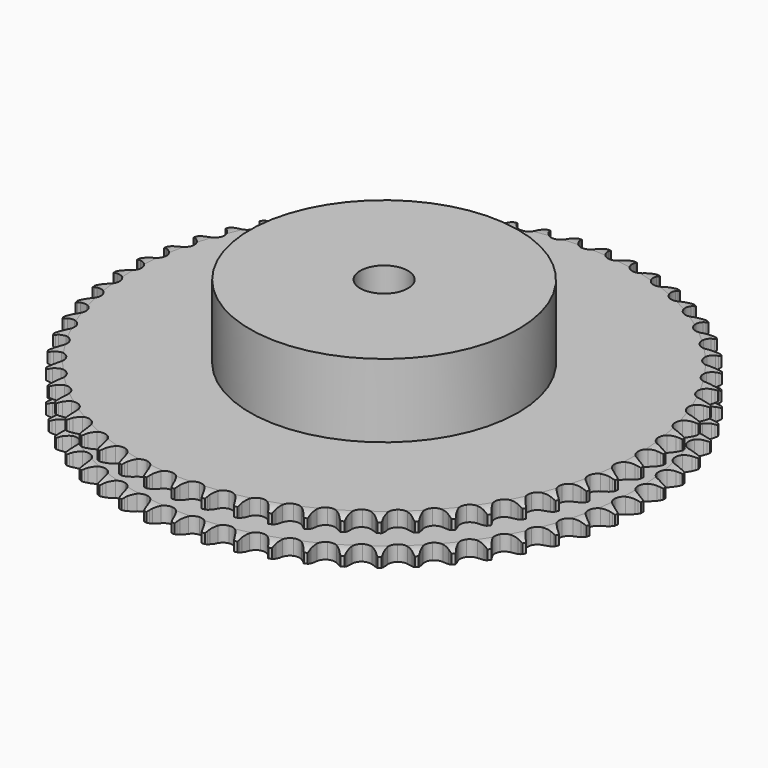
from build123d import *

# Parameters (mm, degrees)
PAD_DEPTH         = 15.4
SKETCH001_R       = 45
PAD001_DEPTH      = 40
SKETCH002_R       = 8
POCKET_DEPTH      = 0.001
POCKET_DEPTH_BACK = 40.001


with BuildPart() as part:
    # Sprocket → Pad (new body)
    with BuildSketch(Plane.XY):
        with BuildLine():
            ThreePointArc((-4.920238, 89.180738), (-4.419782, 88.441541), (-4.055896, 87.626401))
            Line((-4.055896, 87.626401), (-3.74757, 86.732736))
            ThreePointArc((-3.74757, 86.732736), (-3.26015, 85.600386), (-2.610551, 84.552618))
            ThreePointArc((-2.610551, 84.552618), (-1.464602, 83.57525), (0, 83.223986))
            ThreePointArc((0, 83.223986), (1.464602, 83.57525), (2.610551, 84.552618))
            ThreePointArc((2.610551, 84.552618), (3.26015, 85.600386), (3.74757, 86.732736))
            Line((3.74757, 86.732736), (4.055896, 87.626401))
            ThreePointArc((4.055896, 87.626401), (4.419782, 88.441541), (4.920238, 89.180738))
            ThreePointArc((4.920238, 89.180738), (5.336339, 88.390974), (5.608345, 87.54075))
            Line((5.608345, 87.54075), (5.816489, 86.61859))
            ThreePointArc((5.816489, 86.61859), (6.176383, 85.439493), (6.706776, 84.326623))
            ThreePointArc((6.706776, 84.326623), (7.738251, 83.229123), (9.155323, 82.718873))
            ThreePointArc((9.155323, 82.718873), (10.649678, 82.906887), (11.89619, 83.752259))
            Line((11.89619, 83.752259), (13.266139, 85.794063))
            ThreePointArc((13.266139, 85.794063), (13.456362, 86.226986), (13.670904, 86.648386))
            ThreePointArc((13.670904, 86.648386), (14.122254, 87.418549), (14.70099, 88.098204))
            ThreePointArc((14.70099, 88.098204), (15.027685, 87.267459), (15.204508, 86.392473))
            Line((15.204508, 86.392473), (15.309944, 85.453013))
            ThreePointArc((15.309944, 85.453013), (15.537943, 84.24148), (15.942693, 83.077017))
            ThreePointArc((15.942693, 83.077017), (16.847173, 81.872708), (18.199512, 81.209665))
            ThreePointArc((18.199512, 81.209665), (19.705481, 81.232146), (21.037425, 81.935261))
            Line((21.037425, 81.935261), (22.623675, 83.813967))
            ThreePointArc((22.623675, 83.813967), (22.860368, 84.223336), (23.119966, 84.618577))
            ThreePointArc((23.119966, 84.618577), (23.6533, 85.334413), (24.303292, 85.946278))
            ThreePointArc((24.303292, 85.946278), (24.536615, 85.084636), (24.616109, 84.195508))
            Line((24.616109, 84.195508), (24.617557, 83.250151))
            ThreePointArc((24.617557, 83.250151), (24.710894, 82.02089), (24.985086, 80.818969))
            ThreePointArc((24.985086, 80.818969), (25.751593, 79.522468), (27.022784, 78.714681))
            ThreePointArc((27.022784, 78.714681), (28.522086, 78.571357), (29.923295, 79.12368))
            Line((29.923295, 79.12368), (31.70659, 80.816483))
            ThreePointArc((31.70659, 80.816483), (31.98688, 81.197329), (32.288382, 81.561613))
            ThreePointArc((32.288382, 81.561613), (32.897228, 82.214434), (33.610585, 82.751081))
            ThreePointArc((33.610585, 82.751081), (33.747704, 81.869), (33.728904, 80.976524))
            Line((33.728904, 80.976524), (33.626346, 80.036745))
            ThreePointArc((33.626346, 80.036745), (33.583887, 78.804677), (33.724194, 77.579888))
            ThreePointArc((33.724194, 77.579888), (34.343424, 76.206934), (35.518036, 75.264208))
            ThreePointArc((35.518036, 75.264208), (36.992471, 74.956818), (38.445936, 75.351644))
            Line((38.445936, 75.351644), (40.40463, 76.837996))
            ThreePointArc((40.40463, 76.837996), (40.725115, 77.185696), (41.064862, 77.514602))
            ThreePointArc((41.064862, 77.514602), (41.741828, 78.096482), (42.50989, 78.551397))
            ThreePointArc((42.50989, 78.551397), (42.549141, 77.659586), (42.432276, 76.774595))
            Line((42.432276, 76.774595), (42.226957, 75.851802))
            ThreePointArc((42.226957, 75.851802), (42.049218, 74.631882), (42.053937, 73.399092))
            ThreePointArc((42.053937, 73.399092), (42.518372, 71.96635), (43.582147, 70.900129))
            ThreePointArc((43.582147, 70.900129), (45.013818, 70.432405), (46.501895, 70.664942))
            Line((46.501895, 70.664942), (48.612212, 71.9268))
            ThreePointArc((48.612212, 71.9268), (48.969003, 72.237134), (49.342869, 72.526669))
            ThreePointArc((49.342869, 72.526669), (50.079738, 73.030545), (50.893183, 73.398206))
            ThreePointArc((50.893183, 73.398206), (50.83409, 72.50749), (50.620577, 71.640726))
            Line((50.620577, 71.640726), (50.314989, 70.746121))
            ThreePointArc((50.314989, 70.746121), (50.004129, 69.553158), (49.873201, 68.32733))
            ThreePointArc((49.873201, 68.32733), (50.177204, 66.852193), (51.11723, 65.675419))
            ThreePointArc((51.11723, 65.675419), (52.488758, 65.053038), (53.993385, 65.120463))
            Line((53.993385, 65.120463), (56.229709, 66.14251))
            ThreePointArc((56.229709, 66.14251), (56.618473, 66.411711), (57.021921, 66.65836))
            ThreePointArc((57.021921, 66.65836), (57.809748, 67.078117), (58.658702, 67.35406))
            ThreePointArc((58.658702, 67.35406), (58.501981, 66.47525), (58.194414, 65.637235))
            Line((58.194414, 65.637235), (57.792266, 64.781677))
            ThreePointArc((57.792266, 64.781677), (57.352057, 63.630152), (57.087073, 62.426167))
            ThreePointArc((57.087073, 62.426167), (57.226953, 60.92654), (58.031819, 59.653498))
            ThreePointArc((58.031819, 59.653498), (59.326556, 58.884015), (60.829468, 58.785509))
            Line((60.829468, 58.785509), (63.164652, 59.555339))
            ThreePointArc((63.164652, 59.555339), (63.580671, 59.780139), (64.008805, 59.980908))
            ThreePointArc((64.008805, 59.980908), (64.838027, 60.31145), (65.712184, 60.492327))
            ThreePointArc((65.712184, 60.492327), (65.459738, 59.636092), (65.061848, 58.836998))
            Line((65.061848, 58.836998), (64.568023, 58.030872))
            ThreePointArc((64.568023, 58.030872), (64.003808, 56.934762), (63.607985, 55.767235))
            ThreePointArc((63.607985, 55.767235), (63.582045, 54.261322), (64.241981, 52.907464))
            ThreePointArc((64.241981, 52.907464), (65.44421, 52.00022), (66.927163, 51.73698))
            Line((66.927163, 51.73698), (69.332862, 52.245248))
            ThreePointArc((69.332862, 52.245248), (69.771086, 52.422918), (70.218707, 52.57537))
            ThreePointArc((70.218707, 52.57537), (71.079259, 52.812685), (71.968009, 52.896299))
            ThreePointArc((71.968009, 52.896299), (71.622902, 52.073032), (71.13952, 51.322559))
            Line((71.13952, 51.322559), (70.560012, 50.57565))
            ThreePointArc((70.560012, 50.57565), (69.87864, 49.548262), (69.356782, 48.431365))
            ThreePointArc((69.356782, 48.431365), (69.165336, 46.937445), (69.672331, 45.519206))
            ThreePointArc((69.672331, 45.519206), (70.76746, 44.485213), (72.212454, 44.060433))
            Line((72.212454, 44.060433), (74.659466, 44.30097))
            ThreePointArc((74.659466, 44.30097), (75.114575, 44.429353), (75.57625, 44.531638))
            ThreePointArc((75.57625, 44.531638), (76.457686, 44.672845), (77.350239, 44.658182))
            ThreePointArc((77.350239, 44.658182), (76.916661, 43.877876), (76.353655, 43.185134))
            Line((76.353655, 43.185134), (75.695498, 42.506509))
            ThreePointArc((75.695498, 42.506509), (74.905241, 41.560312), (74.263681, 40.507603))
            ThreePointArc((74.263681, 40.507603), (73.909054, 39.043811), (74.256954, 37.578406))
            ThreePointArc((74.256954, 37.578406), (75.231688, 36.430216), (76.621183, 35.849052))
            Line((76.621183, 35.849052), (79.079804, 35.818938))
            ThreePointArc((79.079804, 35.818938), (79.546274, 35.896476), (80.0164, 35.947352))
            ThreePointArc((80.0164, 35.947352), (80.908019, 35.990737), (81.793543, 35.877974))
            ThreePointArc((81.793543, 35.877974), (81.276756, 35.150102), (80.64096, 34.523499))
            Line((80.64096, 34.523499), (79.912143, 33.921396))
            ThreePointArc((79.912143, 33.921396), (79.022592, 33.067877), (78.26912, 32.092134))
            ThreePointArc((78.26912, 32.092134), (77.755617, 30.676238), (77.940198, 29.181455))
            ThreePointArc((77.940198, 29.181455), (78.782706, 27.933005), (80.099835, 27.202513))
            Line((80.099835, 27.202513), (82.540221, 26.902113))
            ThreePointArc((82.540221, 26.902113), (83.01239, 26.927865), (83.485259, 26.926715))
            ThreePointArc((83.485259, 26.926715), (84.376239, 26.87175), (85.243984, 26.662257))
            ThreePointArc((85.243984, 26.662257), (84.650261, 25.995653), (83.949393, 25.442797))
            Line((83.949393, 25.442797), (83.158763, 24.924524))
            ThreePointArc((83.158763, 24.924524), (82.180717, 24.174043), (81.324478, 23.28711))
            ThreePointArc((81.324478, 23.28711), (80.658331, 21.936297), (80.677354, 20.430281))
            ThreePointArc((80.677354, 20.430281), (81.377408, 19.096725), (82.606183, 18.225772))
            Line((82.606183, 18.225772), (84.998711, 17.658732))
            ThreePointArc((84.998711, 17.658732), (85.470847, 17.632386), (85.94072, 17.579223))
            ThreePointArc((85.94072, 17.579223), (86.820246, 17.426577), (87.659678, 17.122896))
            ThreePointArc((87.659678, 17.122896), (86.996227, 16.525652), (86.238794, 16.053253))
            Line((86.238794, 16.053253), (85.395948, 15.625101))
            ThreePointArc((85.395948, 15.625101), (84.341279, 14.986768), (83.392667, 14.199411))
            ThreePointArc((83.392667, 14.199411), (82.581963, 12.930079), (82.435196, 11.431111))
            ThreePointArc((82.435196, 11.431111), (82.984299, 10.028637), (84.109804, 9.027794))
            Line((84.109804, 9.027794), (86.425432, 8.200999))
            ThreePointArc((86.425432, 8.200999), (86.891805, 8.122873), (87.352977, 8.018343))
            ThreePointArc((87.352977, 8.018343), (88.210373, 7.769868), (89.011302, 7.375687))
            ThreePointArc((89.011302, 7.375687), (88.286177, 6.855053), (87.481372, 6.468844))
            Line((87.481372, 6.468844), (86.596542, 6.136011))
            ThreePointArc((86.596542, 6.136011), (85.478053, 5.617574), (84.448582, 4.939352))
            ThreePointArc((84.448582, 4.939352), (83.503161, 3.766907), (83.192386, 2.293182))
            ThreePointArc((83.192386, 2.293182), (83.583873, 0.838815), (84.592446, -0.279768))
            Line((84.592446, -0.279768), (86.803066, -1.356284))
            ThreePointArc((86.803066, -1.356284), (87.258013, -1.48524), (87.704887, -1.639868))
            ThreePointArc((87.704887, -1.639868), (88.529745, -1.981156), (89.28245, -2.461054))
            ThreePointArc((89.28245, -2.461054), (88.504452, -2.898758), (87.662046, -3.194088))
            Line((87.662046, -3.194088), (86.745971, -3.427562))
            ThreePointArc((86.745971, -3.427562), (85.577238, -3.819809), (84.479406, -4.380665))
            ThreePointArc((84.479406, -4.380665), (83.410744, -5.441989), (82.939734, -6.872582))
            ThreePointArc((82.939734, -6.872582), (83.168853, -8.36119), (84.048251, -9.583935))
            Line((84.048251, -9.583935), (86.127028, -10.897103))
            ThreePointArc((86.127028, -10.897103), (86.565027, -11.075325), (86.992179, -11.278174))
            ThreePointArc((86.992179, -11.278174), (87.774486, -11.708131), (88.46983, -12.26792))
            ThreePointArc((88.46983, -12.26792), (87.648402, -12.617382), (86.77862, -12.818247))
            Line((86.77862, -12.818247), (85.842422, -12.949529))
            ThreePointArc((85.842422, -12.949529), (84.637632, -13.210825), (83.484764, -13.647507))
            ThreePointArc((83.484764, -13.647507), (82.305834, -14.584828), (81.680305, -15.954923))
            ThreePointArc((81.680305, -15.954923), (81.744274, -17.4597), (82.483823, -18.771765))
            Line((82.483823, -18.771765), (84.405524, -20.305646))
            ThreePointArc((84.405524, -20.305646), (84.821259, -20.530969), (85.223504, -20.779578))
            ThreePointArc((85.223504, -20.779578), (85.953764, -21.292986), (86.583306, -21.925871))
            ThreePointArc((86.583306, -21.925871), (85.72842, -22.182848), (84.84182, -22.286811))
            Line((84.84182, -22.286811), (83.896862, -22.314306))
            ThreePointArc((83.896862, -22.314306), (82.670639, -22.441479), (81.47673, -22.748686))
            ThreePointArc((81.47673, -22.748686), (80.201842, -23.550626), (79.429389, -24.843592))
            ThreePointArc((79.429389, -24.843592), (79.327431, -26.346274), (79.918154, -27.731732))
            Line((79.918154, -27.731732), (81.659452, -29.467706))
            ThreePointArc((81.659452, -29.467706), (82.047876, -29.737396), (82.42033, -30.028746))
            ThreePointArc((82.42033, -30.028746), (83.089679, -30.619372), (83.645778, -31.317671))
            ThreePointArc((83.645778, -31.317671), (82.767811, -31.479044), (81.875156, -31.484843))
            Line((81.875156, -31.484843), (80.932908, -31.408218))
            ThreePointArc((80.932908, -31.408218), (79.700137, -31.399725), (78.479679, -31.573727))
            ThreePointArc((78.479679, -31.573727), (77.124309, -32.230552), (76.214307, -33.430694))
            ThreePointArc((76.214307, -33.430694), (75.947661, -34.913039), (76.382386, -36.355073))
            Line((76.382386, -36.355073), (77.922144, -38.272068))
            ThreePointArc((77.922144, -38.272068), (78.278543, -38.582851), (78.616686, -38.913406))
            ThreePointArc((78.616686, -38.913406), (79.216998, -39.574081), (79.692904, -40.329317))
            ThreePointArc((79.692904, -40.329317), (78.802513, -40.393127), (77.914637, -40.300691))
            Line((77.914637, -40.300691), (76.986538, -40.120877))
            ThreePointArc((76.986538, -40.120877), (75.762184, -39.97682), (74.529991, -40.015506))
            ThreePointArc((74.529991, -40.015506), (73.110591, -40.519242), (72.074086, -41.611993))
            ThreePointArc((72.074086, -41.611993), (71.645989, -43.056008), (71.91944, -44.537113))
            Line((71.91944, -44.537113), (73.238967, -46.611859))
            ThreePointArc((73.238967, -46.611859), (73.559015, -46.959963), (73.858741, -47.32571))
            ThreePointArc((73.858741, -47.32571), (74.38273, -48.048415), (74.772665, -48.85142))
            ThreePointArc((74.772665, -48.85142), (73.880659, -48.816892), (73.008341, -48.627344))
            Line((73.008341, -48.627344), (72.105655, -48.346522))
            ThreePointArc((72.105655, -48.346522), (70.90458, -48.068651), (69.67561, -47.97155))
            ThreePointArc((69.67561, -47.97155), (68.20941, -48.316084), (67.058984, -49.288178))
            ThreePointArc((67.058984, -49.288178), (66.474631, -50.676335), (66.583489, -52.178532))
            Line((66.583489, -52.178532), (67.666769, -54.385845))
            ThreePointArc((67.666769, -54.385845), (67.946579, -54.767044), (68.204251, -55.163543))
            ThreePointArc((68.204251, -55.163543), (68.645557, -55.939505), (68.944788, -56.780533))
            ThreePointArc((68.944788, -56.780533), (68.061994, -56.648087), (67.215822, -56.363727))
            Line((67.215822, -56.363727), (66.349508, -55.985306))
            ThreePointArc((66.349508, -55.985306), (65.18629, -55.576993), (63.975461, -55.345285))
            ThreePointArc((63.975461, -55.345285), (62.480258, -55.526434), (61.229876, -56.366072))
            ThreePointArc((61.229876, -56.366072), (60.496362, -57.68152), (60.439305, -59.186575))
            Line((60.439305, -59.186575), (61.273187, -61.499661))
            ThreePointArc((61.273187, -61.499661), (61.509365, -61.909327), (61.721855, -62.331766))
            ThreePointArc((61.721855, -62.331766), (62.07512, -63.151566), (62.280014, -64.020407))
            ThreePointArc((62.280014, -64.020407), (61.417148, -63.79165), (60.607394, -63.41593))
            Line((60.607394, -63.41593), (59.787967, -62.944505))
            ThreePointArc((59.787967, -62.944505), (58.676727, -62.410707), (57.498737, -62.047204))
            ThreePointArc((57.498737, -62.047204), (55.992681, -62.062768), (54.657521, -62.759758))
            ThreePointArc((54.657521, -62.759758), (53.783748, -63.986529), (53.561469, -65.476173))
            Line((53.561469, -65.476173), (54.135832, -67.866954))
            ThreePointArc((54.135832, -67.866954), (54.325509, -68.300116), (54.490238, -68.743366))
            ThreePointArc((54.490238, -68.743366), (54.751174, -69.597052), (54.859246, -70.48316))
            ThreePointArc((54.859246, -70.48316), (54.026782, -70.160869), (53.263275, -69.69835))
            Line((53.263275, -69.69835), (52.500682, -69.139642))
            ThreePointArc((52.500682, -69.139642), (51.454908, -68.486838), (50.324056, -67.995953))
            ThreePointArc((50.324056, -67.995953), (48.825429, -67.845744), (47.421698, -68.391625))
            ThreePointArc((47.421698, -68.391625), (46.418273, -69.514829), (46.03347, -70.970979))
            Line((46.03347, -70.970979), (46.341341, -73.410434))
            ThreePointArc((46.341341, -73.410434), (46.482216, -73.861833), (46.597184, -74.320515))
            ThreePointArc((46.597184, -74.320515), (46.762624, -75.197724), (46.77256, -76.090343))
            ThreePointArc((46.77256, -76.090343), (45.980604, -75.67843), (45.272611, -75.134726))
            Line((45.272611, -75.134726), (44.576109, -74.495518))
            ThreePointArc((44.576109, -74.495518), (43.608497, -73.731632), (42.538509, -73.119323))
            ThreePointArc((42.538509, -73.119323), (41.065502, -72.805165), (39.610239, -73.193311))
            ThreePointArc((39.610239, -73.193311), (38.489343, -74.199313), (37.946687, -75.604293))
            Line((37.946687, -75.604293), (37.98433, -78.062811))
            ThreePointArc((37.98433, -78.062811), (38.074692, -78.526967), (38.138503, -78.995513))
            ThreePointArc((38.138503, -78.995513), (38.206439, -79.885598), (38.118119, -80.773893))
            ThreePointArc((38.118119, -80.773893), (37.376283, -80.277358), (36.7324, -79.659069))
            Line((36.7324, -79.659069), (36.110443, -78.947119))
            ThreePointArc((36.110443, -78.947119), (35.232737, -78.081425), (34.236603, -77.355124))
            ThreePointArc((34.236603, -77.355124), (32.807095, -76.88083), (31.317966, -77.106529))
            ThreePointArc((31.317966, -77.106529), (30.093204, -77.983117), (29.399283, -79.319874))
            Line((29.399283, -79.319874), (29.16624, -81.767611))
            ThreePointArc((29.16624, -81.767611), (29.204992, -82.238891), (29.216872, -82.711612))
            ThreePointArc((29.216872, -82.711612), (29.186479, -83.603769), (29.000976, -84.476956))
            ThreePointArc((29.000976, -84.476956), (28.318265, -83.901827), (27.746306, -83.216458))
            Line((27.746306, -83.216458), (27.206445, -82.440409))
            ThreePointArc((27.206445, -82.440409), (26.4293, -81.483414), (25.51911, -80.651939))
            ThreePointArc((25.51911, -80.651939), (24.150455, -80.023266), (22.645535, -80.083779))
            ThreePointArc((22.645535, -80.083779), (21.331775, -80.820312), (20.495011, -82.072619))
            Line((20.495011, -82.072619), (19.994111, -84.479863))
            ThreePointArc((19.994111, -84.479863), (19.980784, -84.952546), (19.940588, -85.423705))
            ThreePointArc((19.940588, -85.423705), (19.812235, -86.307103), (19.5318, -87.154584))
            ThreePointArc((19.5318, -87.154584), (18.916502, -86.507842), (18.423411, -85.763712))
            Line((18.423411, -85.763712), (17.972198, -84.932985))
            ThreePointArc((17.972198, -84.932985), (17.305046, -83.896305), (16.49185, -82.969748))
            ThreePointArc((16.49185, -82.969748), (15.200661, -82.194327), (13.698218, -82.088919))
            ThreePointArc((13.698218, -82.088919), (12.311407, -82.676458), (11.341957, -83.829113))
            Line((11.341957, -83.829113), (10.579281, -86.166644))
            ThreePointArc((10.579281, -86.166644), (10.514035, -86.634992), (10.422252, -87.09887))
            ThreePointArc((10.422252, -87.09887), (10.197497, -87.962786), (9.825534, -88.774273))
            ThreePointArc((9.825534, -88.774273), (9.285117, -88.063769), (8.87688, -87.269911))
            Line((8.87688, -87.269911), (8.519792, -86.394588))
            ThreePointArc((8.519792, -86.394588), (7.970733, -85.290809), (7.264401, -84.280417))
            ThreePointArc((7.264401, -84.280417), (6.066352, -83.367661), (4.584623, -83.097612))
            ThreePointArc((4.584623, -83.097612), (3.141595, -83.529024), (2.051227, -84.568036))
            Line((2.051227, -84.568036), (1.036032, -86.807479))
            ThreePointArc((1.036032, -86.807479), (0.919661, -87.265807), (0.777405, -87.716772))
            ThreePointArc((0.777405, -87.716772), (0.458975, -88.55072), (0, -89.316363))
            ThreePointArc((0, -89.316363), (-0.458975, -88.55072), (-0.777405, -87.716772))
            Line((-0.777405, -87.716772), (-1.036032, -86.807479))
            ThreePointArc((-1.036032, -86.807479), (-1.460334, -85.649997), (-2.051227, -84.568036))
            ThreePointArc((-2.051227, -84.568036), (-3.141595, -83.529024), (-4.584623, -83.097612))
            ThreePointArc((-4.584623, -83.097612), (-6.066352, -83.367661), (-7.264401, -84.280417))
            Line((-7.264401, -84.280417), (-8.519792, -86.394588))
            ThreePointArc((-8.519792, -86.394588), (-8.685877, -86.837332), (-8.87688, -87.269911))
            ThreePointArc((-8.87688, -87.269911), (-9.285117, -88.063769), (-9.825534, -88.774273))
            ThreePointArc((-9.825534, -88.774273), (-10.197497, -87.962786), (-10.422252, -87.09887))
            Line((-10.422252, -87.09887), (-10.579281, -86.166644))
            ThreePointArc((-10.579281, -86.166644), (-10.873675, -84.969511), (-11.341957, -83.829113))
            ThreePointArc((-11.341957, -83.829113), (-12.311407, -82.676458), (-13.698218, -82.088919))
            ThreePointArc((-13.698218, -82.088919), (-15.200661, -82.194327), (-16.49185, -82.969748))
            Line((-16.49185, -82.969748), (-17.972198, -84.932985))
            ThreePointArc((-17.972198, -84.932985), (-18.18598, -85.354771), (-18.423411, -85.763712))
            ThreePointArc((-18.423411, -85.763712), (-18.916502, -86.507842), (-19.5318, -87.154584))
            ThreePointArc((-19.5318, -87.154584), (-19.812235, -86.307103), (-19.940588, -85.423705))
            Line((-19.940588, -85.423705), (-19.994111, -84.479863))
            ThreePointArc((-19.994111, -84.479863), (-20.155024, -83.25761), (-20.495011, -82.072619))
            ThreePointArc((-20.495011, -82.072619), (-21.331775, -80.820312), (-22.645535, -80.083779))
            ThreePointArc((-22.645535, -80.083779), (-24.150455, -80.023266), (-25.51911, -80.651939))
            Line((-25.51911, -80.651939), (-27.206445, -82.440409))
            ThreePointArc((-27.206445, -82.440409), (-27.46533, -82.836118), (-27.746306, -83.216458))
            ThreePointArc((-27.746306, -83.216458), (-28.318265, -83.901827), (-29.000976, -84.476956))
            ThreePointArc((-29.000976, -84.476956), (-29.186479, -83.603769), (-29.216872, -82.711612))
            Line((-29.216872, -82.711612), (-29.16624, -81.767611))
            ThreePointArc((-29.16624, -81.767611), (-29.191718, -80.535075), (-29.399283, -79.319874))
            ThreePointArc((-29.399283, -79.319874), (-30.093204, -77.983117), (-31.317966, -77.106529))
            ThreePointArc((-31.317966, -77.106529), (-32.807095, -76.88083), (-34.236603, -77.355124))
            Line((-34.236603, -77.355124), (-36.110443, -78.947119))
            ThreePointArc((-36.110443, -78.947119), (-36.411288, -79.311947), (-36.7324, -79.659069))
            ThreePointArc((-36.7324, -79.659069), (-37.376283, -80.277358), (-38.118119, -80.773893))
            ThreePointArc((-38.118119, -80.773893), (-38.206439, -79.885598), (-38.138503, -78.995513))
            Line((-38.138503, -78.995513), (-37.98433, -78.062811))
            ThreePointArc((-37.98433, -78.062811), (-37.874064, -76.834952), (-37.946687, -75.604293))
            ThreePointArc((-37.946687, -75.604293), (-38.489343, -74.199313), (-39.610239, -73.193311))
            ThreePointArc((-39.610239, -73.193311), (-41.065502, -72.805165), (-42.538509, -73.119323))
            Line((-42.538509, -73.119323), (-44.576109, -74.495518))
            ThreePointArc((-44.576109, -74.495518), (-44.915262, -74.825036), (-45.272611, -75.134726))
            ThreePointArc((-45.272611, -75.134726), (-45.980604, -75.67843), (-46.77256, -76.090343))
            ThreePointArc((-46.77256, -76.090343), (-46.762624, -75.197724), (-46.597184, -74.320515))
            Line((-46.597184, -74.320515), (-46.341341, -73.410434))
            ThreePointArc((-46.341341, -73.410434), (-46.096671, -72.202158), (-46.03347, -70.970979))
            ThreePointArc((-46.03347, -70.970979), (-46.418273, -69.514829), (-47.421698, -68.391625))
            ThreePointArc((-47.421698, -68.391625), (-48.825429, -67.845744), (-50.324056, -67.995953))
            Line((-50.324056, -67.995953), (-52.500682, -69.139642))
            ThreePointArc((-52.500682, -69.139642), (-52.874026, -69.42985), (-53.263275, -69.69835))
            ThreePointArc((-53.263275, -69.69835), (-54.026782, -70.160869), (-54.859246, -70.48316))
            ThreePointArc((-54.859246, -70.48316), (-54.751174, -69.597052), (-54.490238, -68.743366))
            Line((-54.490238, -68.743366), (-54.135832, -67.866954))
            ThreePointArc((-54.135832, -67.866954), (-53.759726, -66.692927), (-53.561469, -65.476173))
            ThreePointArc((-53.561469, -65.476173), (-53.783748, -63.986529), (-54.657521, -62.759758))
            ThreePointArc((-54.657521, -62.759758), (-55.992681, -62.062768), (-57.498737, -62.047204))
            Line((-57.498737, -62.047204), (-59.787967, -62.944505))
            ThreePointArc((-59.787967, -62.944505), (-60.190971, -63.191881), (-60.607394, -63.41593))
            ThreePointArc((-60.607394, -63.41593), (-61.417148, -63.79165), (-62.280014, -64.020407))
            ThreePointArc((-62.280014, -64.020407), (-62.07512, -63.151566), (-61.721855, -62.331766))
            Line((-61.721855, -62.331766), (-61.273187, -61.499661))
            ThreePointArc((-61.273187, -61.499661), (-60.770211, -60.374134), (-60.439305, -59.186575))
            ThreePointArc((-60.439305, -59.186575), (-60.496362, -57.68152), (-61.229876, -56.366072))
            ThreePointArc((-61.229876, -56.366072), (-62.480258, -55.526434), (-63.975461, -55.345285))
            Line((-63.975461, -55.345285), (-66.349508, -55.985306))
            ThreePointArc((-66.349508, -55.985306), (-66.777279, -56.186847), (-67.215822, -56.363727))
            ThreePointArc((-67.215822, -56.363727), (-68.061994, -56.648087), (-68.944788, -56.780533))
            ThreePointArc((-68.944788, -56.780533), (-68.645557, -55.939505), (-68.204251, -55.163543))
            Line((-68.204251, -55.163543), (-67.666769, -54.385845))
            ThreePointArc((-67.666769, -54.385845), (-67.043028, -53.322481), (-66.583489, -52.178532))
            ThreePointArc((-66.583489, -52.178532), (-66.474631, -50.676335), (-67.058984, -49.288178))
            ThreePointArc((-67.058984, -49.288178), (-68.20941, -48.316084), (-69.67561, -47.97155))
            Line((-69.67561, -47.97155), (-72.105655, -48.346522))
            ThreePointArc((-72.105655, -48.346522), (-72.553001, -48.499781), (-73.008341, -48.627344))
            ThreePointArc((-73.008341, -48.627344), (-73.880659, -48.816892), (-74.772665, -48.85142))
            ThreePointArc((-74.772665, -48.85142), (-74.38273, -48.048415), (-73.858741, -47.32571))
            Line((-73.858741, -47.32571), (-73.238967, -46.611859))
            ThreePointArc((-73.238967, -46.611859), (-72.502034, -45.623566), (-71.91944, -44.537113))
            ThreePointArc((-71.91944, -44.537113), (-71.645989, -43.056008), (-72.074086, -41.611993))
            ThreePointArc((-72.074086, -41.611993), (-73.110591, -40.519242), (-74.529991, -40.015506))
            Line((-74.529991, -40.015506), (-76.986538, -40.120877))
            ThreePointArc((-76.986538, -40.120877), (-77.448028, -40.223994), (-77.914637, -40.300691))
            ThreePointArc((-77.914637, -40.300691), (-78.802513, -40.393127), (-79.692904, -40.329317))
            ThreePointArc((-79.692904, -40.329317), (-79.216998, -39.574081), (-78.616686, -38.913406))
            Line((-78.616686, -38.913406), (-77.922144, -38.272068))
            ThreePointArc((-77.922144, -38.272068), (-77.080963, -37.370842), (-76.382386, -36.355073))
            ThreePointArc((-76.382386, -36.355073), (-75.947661, -34.913039), (-76.214307, -33.430694))
            ThreePointArc((-76.214307, -33.430694), (-77.124309, -32.230552), (-78.479679, -31.573727))
            Line((-78.479679, -31.573727), (-80.932908, -31.408218))
            ThreePointArc((-80.932908, -31.408218), (-81.402941, -31.459942), (-81.875156, -31.484843))
            ThreePointArc((-81.875156, -31.484843), (-82.767811, -31.479044), (-83.645778, -31.317671))
            ThreePointArc((-83.645778, -31.317671), (-83.089679, -30.619372), (-82.42033, -30.028746))
            Line((-82.42033, -30.028746), (-81.659452, -29.467706))
            ThreePointArc((-81.659452, -29.467706), (-80.724233, -28.664486), (-79.918154, -27.731732))
            ThreePointArc((-79.918154, -27.731732), (-79.327431, -26.346274), (-79.429389, -24.843592))
            ThreePointArc((-79.429389, -24.843592), (-80.201842, -23.550626), (-81.47673, -22.748686))
            Line((-81.47673, -22.748686), (-83.896862, -22.314306))
            ThreePointArc((-83.896862, -22.314306), (-84.369733, -22.314009), (-84.84182, -22.286811))
            ThreePointArc((-84.84182, -22.286811), (-85.72842, -22.182848), (-86.583306, -21.925871))
            ThreePointArc((-86.583306, -21.925871), (-85.953764, -21.292986), (-85.223504, -20.779578))
            Line((-85.223504, -20.779578), (-84.405524, -20.305646))
            ThreePointArc((-84.405524, -20.305646), (-83.387621, -19.610183), (-82.483823, -18.771765))
            ThreePointArc((-82.483823, -18.771765), (-81.744274, -17.4597), (-81.680305, -15.954923))
            ThreePointArc((-81.680305, -15.954923), (-82.305834, -14.584828), (-83.484764, -13.647507))
            Line((-83.484764, -13.647507), (-85.842422, -12.949529))
            ThreePointArc((-85.842422, -12.949529), (-86.31239, -12.897213), (-86.77862, -12.818247))
            ThreePointArc((-86.77862, -12.818247), (-87.648402, -12.617382), (-88.46983, -12.26792))
            ThreePointArc((-88.46983, -12.26792), (-87.774486, -11.708131), (-86.992179, -11.278174))
            Line((-86.992179, -11.278174), (-86.127028, -10.897103))
            ThreePointArc((-86.127028, -10.897103), (-85.038796, -10.317839), (-84.048251, -9.583935))
            ThreePointArc((-84.048251, -9.583935), (-83.168853, -8.36119), (-82.939734, -6.872582))
            ThreePointArc((-82.939734, -6.872582), (-83.410744, -5.441989), (-84.479406, -4.380665))
            Line((-84.479406, -4.380665), (-86.745971, -3.427562))
            ThreePointArc((-86.745971, -3.427562), (-87.207332, -3.323864), (-87.662046, -3.194088))
            ThreePointArc((-87.662046, -3.194088), (-88.504452, -2.898758), (-89.28245, -2.461054))
            ThreePointArc((-89.28245, -2.461054), (-88.529745, -1.981156), (-87.704887, -1.639868))
            Line((-87.704887, -1.639868), (-86.803066, -1.356284))
            ThreePointArc((-86.803066, -1.356284), (-85.657715, -0.90025), (-84.592446, -0.279768))
            ThreePointArc((-84.592446, -0.279768), (-83.583873, 0.838815), (-83.192386, 2.293182))
            ThreePointArc((-83.192386, 2.293182), (-83.503161, 3.766907), (-84.448582, 4.939352))
            Line((-84.448582, 4.939352), (-86.596542, 6.136011))
            ThreePointArc((-86.596542, 6.136011), (-87.043695, 6.289833), (-87.481372, 6.468844))
            ThreePointArc((-87.481372, 6.468844), (-88.286177, 6.855053), (-89.011302, 7.375687))
            ThreePointArc((-89.011302, 7.375687), (-88.210373, 7.769868), (-87.352977, 8.018343))
            Line((-87.352977, 8.018343), (-86.425432, 8.200999))
            ThreePointArc((-86.425432, 8.200999), (-85.236866, 8.528267), (-84.109804, 9.027794))
            ThreePointArc((-84.109804, 9.027794), (-82.984299, 10.028637), (-82.435196, 11.431111))
            ThreePointArc((-82.435196, 11.431111), (-82.581963, 12.930079), (-83.392667, 14.199411))
            Line((-83.392667, 14.199411), (-85.395948, 15.625101))
            ThreePointArc((-85.395948, 15.625101), (-85.823465, 15.82718), (-86.238794, 16.053253))
            ThreePointArc((-86.238794, 16.053253), (-86.996227, 16.525652), (-87.659678, 17.122896))
            ThreePointArc((-87.659678, 17.122896), (-86.820246, 17.426577), (-85.94072, 17.579223))
            Line((-85.94072, 17.579223), (-84.998711, 17.658732))
            ThreePointArc((-84.998711, 17.658732), (-83.781356, 17.853262), (-82.606183, 18.225772))
            ThreePointArc((-82.606183, 18.225772), (-81.377408, 19.096725), (-80.677354, 20.430281))
            ThreePointArc((-80.677354, 20.430281), (-80.658331, 21.936297), (-81.324478, 23.28711))
            Line((-81.324478, 23.28711), (-83.158763, 24.924524))
            ThreePointArc((-83.158763, 24.924524), (-83.561455, 25.172407), (-83.949393, 25.442797))
            ThreePointArc((-83.949393, 25.442797), (-84.650261, 25.995653), (-85.243984, 26.662257))
            ThreePointArc((-85.243984, 26.662257), (-84.376239, 26.87175), (-83.485259, 26.926715))
            Line((-83.485259, 26.926715), (-82.540221, 26.902113))
            ThreePointArc((-82.540221, 26.902113), (-81.308855, 26.961543), (-80.099835, 27.202513))
            ThreePointArc((-80.099835, 27.202513), (-78.782706, 27.933005), (-77.940198, 29.181455))
            ThreePointArc((-77.940198, 29.181455), (-77.755617, 30.676238), (-78.26912, 32.092134))
            Line((-78.26912, 32.092134), (-79.912143, 33.921396))
            ThreePointArc((-79.912143, 33.921396), (-80.285122, 34.212074), (-80.64096, 34.523499))
            ThreePointArc((-80.64096, 34.523499), (-81.276756, 35.150102), (-81.793543, 35.877974))
            ThreePointArc((-81.793543, 35.877974), (-80.908019, 35.990737), (-80.0164, 35.947352))
            Line((-80.0164, 35.947352), (-79.079804, 35.818938))
            ThreePointArc((-79.079804, 35.818938), (-77.849373, 35.742547), (-76.621183, 35.849052))
            ThreePointArc((-76.621183, 35.849052), (-75.231688, 36.430216), (-74.256954, 37.578406))
            ThreePointArc((-74.256954, 37.578406), (-73.909054, 39.043811), (-74.263681, 40.507603))
            Line((-74.263681, 40.507603), (-75.695498, 42.506509))
            ThreePointArc((-75.695498, 42.506509), (-76.034236, 42.836454), (-76.353655, 43.185134))
            ThreePointArc((-76.353655, 43.185134), (-76.916661, 43.877876), (-77.350239, 44.658182))
            ThreePointArc((-77.350239, 44.658182), (-76.457686, 44.672845), (-75.57625, 44.531638))
            Line((-75.57625, 44.531638), (-74.659466, 44.30097))
            ThreePointArc((-74.659466, 44.30097), (-73.444907, 44.089685), (-72.212454, 44.060433))
            ThreePointArc((-72.212454, 44.060433), (-70.76746, 44.485213), (-69.672331, 45.519206))
            ThreePointArc((-69.672331, 45.519206), (-69.165336, 46.937445), (-69.356782, 48.431365))
            Line((-69.356782, 48.431365), (-70.560012, 50.57565))
            ThreePointArc((-70.560012, 50.57565), (-70.860397, 50.940856), (-71.13952, 51.322559))
            ThreePointArc((-71.13952, 51.322559), (-71.622902, 52.073032), (-71.968009, 52.896299))
            ThreePointArc((-71.968009, 52.896299), (-71.079259, 52.812685), (-70.218707, 52.57537))
            Line((-70.218707, 52.57537), (-69.332862, 52.245248))
            ThreePointArc((-69.332862, 52.245248), (-68.148918, 51.901634), (-66.927163, 51.73698))
            ThreePointArc((-66.927163, 51.73698), (-65.44421, 52.00022), (-64.241981, 52.907464))
            ThreePointArc((-64.241981, 52.907464), (-63.582045, 54.261322), (-63.607985, 55.767235))
            Line((-63.607985, 55.767235), (-64.568023, 58.030872))
            ThreePointArc((-64.568023, 58.030872), (-64.82641, 58.426906), (-65.061848, 58.836998))
            ThreePointArc((-65.061848, 58.836998), (-65.459738, 59.636092), (-65.712184, 60.492327))
            ThreePointArc((-65.712184, 60.492327), (-64.838027, 60.31145), (-64.008805, 59.980908))
            Line((-64.008805, 59.980908), (-63.164652, 59.555339))
            ThreePointArc((-63.164652, 59.555339), (-62.025694, 59.083567), (-60.829468, 58.785509))
            ThreePointArc((-60.829468, 58.785509), (-59.326556, 58.884015), (-58.031819, 59.653498))
            ThreePointArc((-58.031819, 59.653498), (-57.226953, 60.92654), (-57.087073, 62.426167))
            Line((-57.087073, 62.426167), (-57.792266, 64.781677))
            ThreePointArc((-57.792266, 64.781677), (-58.005517, 65.203732), (-58.194414, 65.637235))
            ThreePointArc((-58.194414, 65.637235), (-58.501981, 66.47525), (-58.658702, 67.35406))
            ThreePointArc((-58.658702, 67.35406), (-57.809748, 67.078117), (-57.021921, 66.65836))
            Line((-57.021921, 66.65836), (-56.229709, 66.14251))
            ThreePointArc((-56.229709, 66.14251), (-55.149562, 65.548306), (-53.993385, 65.120463))
            ThreePointArc((-53.993385, 65.120463), (-52.488758, 65.053038), (-51.11723, 65.675419))
            ThreePointArc((-51.11723, 65.675419), (-50.177204, 66.852193), (-49.873201, 68.32733))
            Line((-49.873201, 68.32733), (-50.314989, 70.746121))
            ThreePointArc((-50.314989, 70.746121), (-50.480517, 71.189074), (-50.620577, 71.640726))
            ThreePointArc((-50.620577, 71.640726), (-50.83409, 72.50749), (-50.893183, 73.398206))
            ThreePointArc((-50.893183, 73.398206), (-50.079738, 73.030545), (-49.342869, 72.526669))
            Line((-49.342869, 72.526669), (-48.612212, 71.9268))
            ThreePointArc((-48.612212, 71.9268), (-47.603989, 71.217378), (-46.501895, 70.664942))
            ThreePointArc((-46.501895, 70.664942), (-45.013818, 70.432405), (-43.582147, 70.900129))
            ThreePointArc((-43.582147, 70.900129), (-42.518372, 71.96635), (-42.053937, 73.399092))
            Line((-42.053937, 73.399092), (-42.226957, 75.851802))
            ThreePointArc((-42.226957, 75.851802), (-42.342751, 76.310276), (-42.432276, 76.774595))
            ThreePointArc((-42.432276, 76.774595), (-42.549141, 77.659586), (-42.50989, 78.551397))
            ThreePointArc((-42.50989, 78.551397), (-41.741828, 78.096482), (-41.064862, 77.514602))
            Line((-41.064862, 77.514602), (-40.40463, 76.837996))
            ThreePointArc((-40.40463, 76.837996), (-39.480568, 76.021967), (-38.445936, 75.351644))
            ThreePointArc((-38.445936, 75.351644), (-36.992471, 74.956818), (-35.518036, 75.264208))
            ThreePointArc((-35.518036, 75.264208), (-34.343424, 76.206934), (-33.724194, 77.579888))
            Line((-33.724194, 77.579888), (-33.626346, 80.036745))
            ThreePointArc((-33.626346, 80.036745), (-33.691001, 80.505175), (-33.728904, 80.976524))
            ThreePointArc((-33.728904, 80.976524), (-33.747704, 81.869), (-33.610585, 82.751081))
            ThreePointArc((-33.610585, 82.751081), (-32.897228, 82.214434), (-32.288382, 81.561613))
            Line((-32.288382, 81.561613), (-31.70659, 80.816483))
            ThreePointArc((-31.70659, 80.816483), (-30.877906, 79.903752), (-29.923295, 79.12368))
            ThreePointArc((-29.923295, 79.12368), (-28.522086, 78.571357), (-27.022784, 78.714681))
            ThreePointArc((-27.022784, 78.714681), (-25.751593, 79.522468), (-24.985086, 80.818969))
            Line((-24.985086, 80.818969), (-24.617557, 83.250151))
            ThreePointArc((-24.617557, 83.250151), (-24.630289, 83.72285), (-24.616109, 84.195508))
            ThreePointArc((-24.616109, 84.195508), (-24.536615, 85.084636), (-24.303292, 85.946278))
            ThreePointArc((-24.303292, 85.946278), (-23.6533, 85.334413), (-23.119966, 84.618577))
            Line((-23.119966, 84.618577), (-22.623675, 83.813967))
            ThreePointArc((-22.623675, 83.813967), (-21.900428, 82.815614), (-21.037425, 81.935261))
            ThreePointArc((-21.037425, 81.935261), (-19.705481, 81.232146), (-18.199512, 81.209665))
            ThreePointArc((-18.199512, 81.209665), (-16.847173, 81.872708), (-15.942693, 83.077017))
            Line((-15.942693, 83.077017), (-15.309944, 85.453013))
            ThreePointArc((-15.309944, 85.453013), (-15.270598, 85.924243), (-15.204508, 86.392473))
            ThreePointArc((-15.204508, 86.392473), (-15.027685, 87.267459), (-14.70099, 88.098204))
            ThreePointArc((-14.70099, 88.098204), (-14.122254, 87.418549), (-13.670904, 86.648386))
            Line((-13.670904, 86.648386), (-13.266139, 85.794063))
            ThreePointArc((-13.266139, 85.794063), (-12.657109, 84.722206), (-11.89619, 83.752259))
            ThreePointArc((-11.89619, 83.752259), (-10.649678, 82.906887), (-9.155323, 82.718873))
            ThreePointArc((-9.155323, 82.718873), (-7.738251, 83.229123), (-6.706776, 84.326623))
            Line((-6.706776, 84.326623), (-5.816489, 86.61859))
            ThreePointArc((-5.816489, 86.61859), (-5.725542, 87.082633), (-5.608345, 87.54075))
            ThreePointArc((-5.608345, 87.54075), (-5.336339, 88.390974), (-4.920238, 89.180738))
        make_face()
    extrude(amount=PAD_DEPTH)

    # Sketch → Groove (revolve, cut)
    with BuildSketch(Plane.XZ):
        with BuildLine():
            ThreePointArc((84.091101, 0), (86.327169, 0.253206), (88.45, 1))
            Line((88.45, 1), (88.45, 4.2))
            ThreePointArc((88.45, 4.2), (86.327169, 4.946794), (84.091101, 5.2))
            Line((45, 5.2), (84.091101, 5.2))
            Line((45, 10.2), (45, 5.2))
            Line((84.091101, 10.2), (45, 10.2))
            ThreePointArc((84.091101, 10.2), (86.327169, 10.453206), (88.45, 11.2))
            Line((88.45, 11.2), (88.45, 14.4))
            ThreePointArc((88.45, 14.4), (86.327169, 15.146794), (84.091101, 15.4))
            Line((84.091101, 15.4), (94.091101, 15.4))
            Line((94.091101, 15.4), (94.091101, 0))
            Line((84.091101, 0), (94.091101, 0))
        make_face()
    revolve(axis=Axis((0, 0, 0), (0, 0, 1)), mode=Mode.SUBTRACT)

    # Sketch001 → Pad001 (join)
    with BuildSketch(Plane.XY):
        Circle(SKETCH001_R)
    extrude(amount=PAD001_DEPTH)

    # Sketch002 → Pocket (cut, two sides)
    with BuildSketch(Plane.XY) as pocket_sk:
        Circle(SKETCH002_R)
    extrude(amount=-POCKET_DEPTH, mode=Mode.SUBTRACT)
    extrude(pocket_sk.sketch, amount=POCKET_DEPTH_BACK, mode=Mode.SUBTRACT)


solid = part.part
